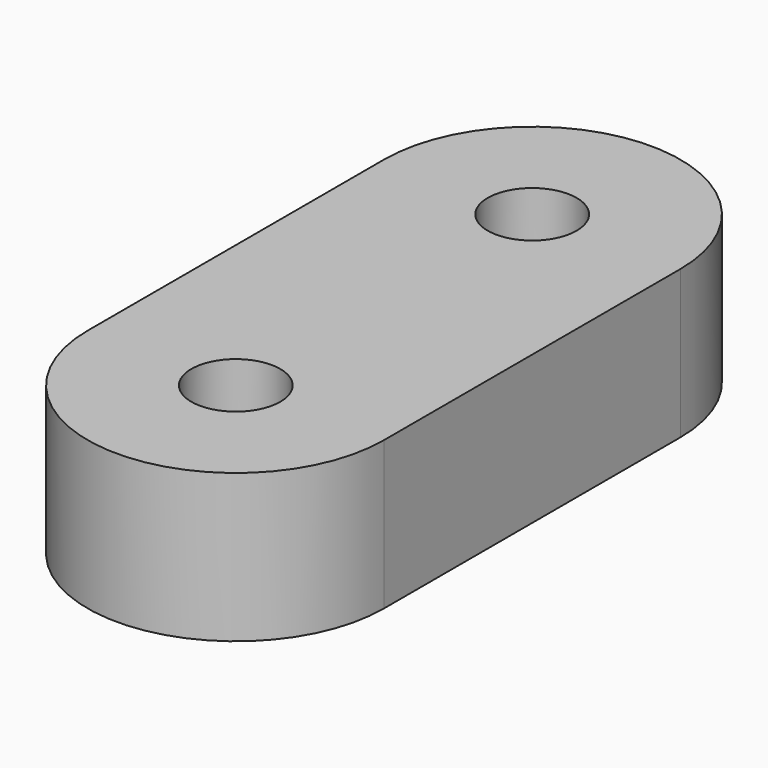
from build123d import *

# Parameters (mm, degrees)
SKETCH_R  = 3
PAD_DEPTH = 10


with BuildPart() as part:
    # Sketch → Pad (new body)
    with BuildSketch(Plane.XY):
        with BuildLine():
            ThreePointArc((-10, 0), (0, -10), (10, 0))
            Line((10, 0), (10, 25))
            ThreePointArc((10, 25), (0, 35), (-10, 25))
            Line((-10, 0), (-10, 25))
        make_face()
        with Locations((0, 25)):
            Circle(SKETCH_R, mode=Mode.SUBTRACT)
        Circle(SKETCH_R, mode=Mode.SUBTRACT)
    extrude(amount=PAD_DEPTH)


solid = part.part
